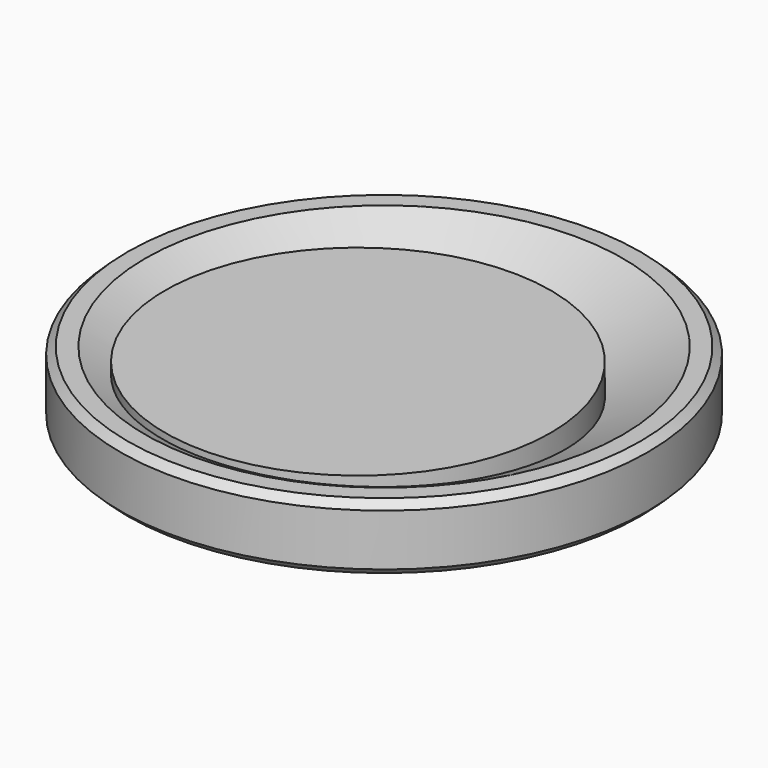
from build123d import *

# Parameters (mm, degrees)
F0_R     = 20
F0_R_2   = 1.5
F1_DEPTH = 5
F4_R     = 14.613565
F5_DEPTH = 5


with BuildPart() as f1:
    # F0 (on Top) → F1 (new body)
    with BuildSketch(Plane.XY):
        Circle(F0_R)
        Circle(F0_R_2, mode=Mode.SUBTRACT)
    extrude(amount=F1_DEPTH)

    # F2 (on Front) → F3 (revolve, intersect)
    with BuildSketch(Plane.XZ):
        Polygon((20, 0.538248), (20, 4.461752), (19.430714, 5), (18.09014, 5), (7.885276, 0), (19.430714, 0), align=None)
    revolve(axis=Axis((0, 0, 2.5), (0, 0, 1)), mode=Mode.INTERSECT)

    # F4 (on Top) → F5 (join, through all)
    with BuildSketch(Plane.XY):
        with Locations((0, -2.476576)):
            Circle(F4_R)
    extrude(amount=F5_DEPTH)


solid = f1.part
